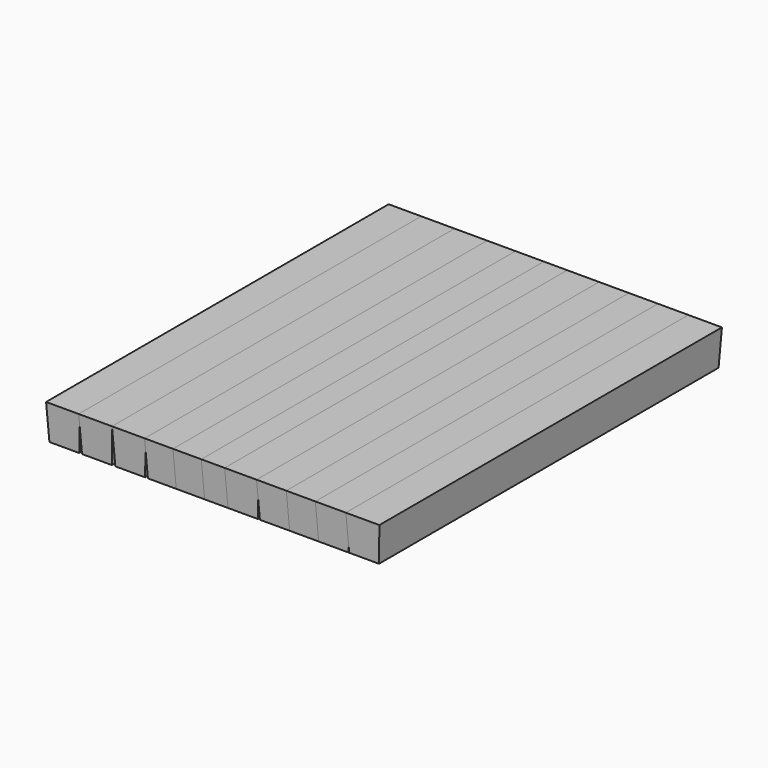
from build123d import *

# Parameters (mm, degrees)
F0_W     = 10.6867514551
F0_H     = 152.1455571055
F1_DEPTH = 12.7
F1_TAPER = -3


with BuildPart() as f1:
    # F0 (on Top) → F1 (new body)
    with BuildSketch(Plane.XY):
        with Locations((-62.1518809348, -0.2812333405)):
            Rectangle(F0_W, F0_H)
    extrude(amount=F1_DEPTH, taper=F1_TAPER)


with BuildPart() as f2_1:
    # F2: copy of F1
    add(f1.part.moved(Location((11.684, 0, 0))))


with BuildPart() as f3_1:
    # F3: copy of F1
    add(f1.part.moved(Location((24.13, 0, 0))))


with BuildPart() as f5_1:
    # F5: copy of F1
    add(f1.part.moved(Location((23.622, 0, 0))))


with BuildPart() as f6_1:
    # F6: copy of F5_1
    add(f5_1.part.moved(Location((12.192, 0, 0))))


with BuildPart() as f8_1:
    # F8: copy of F5_1
    add(f5_1.part.moved(Location((11.684, 0, 0))))


with BuildPart() as f9_1:
    # F9: copy of F8_1
    add(f8_1.part.moved(Location((10.16, 0, 0))))


with BuildPart() as f10_1:
    # F10: copy of F9_1
    add(f9_1.part.moved(Location((10.16, 0, 0))))


with BuildPart() as f11_1:
    # F11: copy of F10_1
    add(f10_1.part.moved(Location((8.382, 0, 0))))


with BuildPart() as f12_1:
    # F12: copy of F11_1
    add(f11_1.part.moved(Location((11.43, 0, 0))))


with BuildPart() as f13_1:
    # F13: copy of F12_1
    add(f12_1.part.moved(Location((10.668, 0, 0))))


with BuildPart() as f14_1:
    # F14: copy of F13_1
    add(f13_1.part.moved(Location((10.414, 0, 0))))


with BuildPart() as f15_1:
    # F15: copy of F14_1
    add(f14_1.part.moved(Location((10.922, 0, 0))))


solid = Compound([f1.part, f2_1.part, f5_1.part, f8_1.part, f9_1.part, f10_1.part, f11_1.part, f12_1.part, f13_1.part, f14_1.part, f15_1.part])
